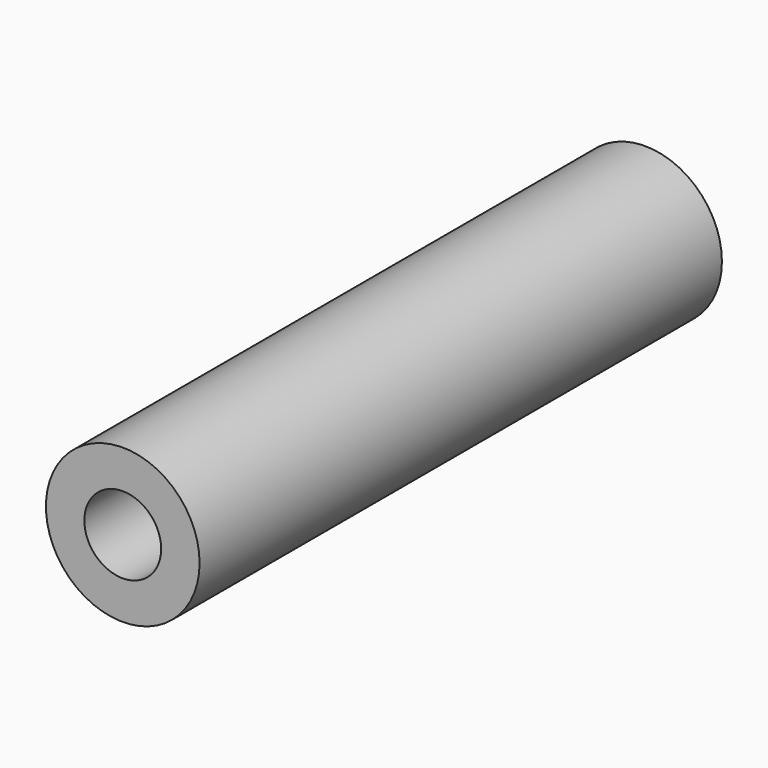
from build123d import *

# Parameters (mm, degrees)
CYLINDER021_R          = 1
CYLINDER021_DEPTH      = 17
CYLINDER021_ROLL_ANGLE = 90
CYLINDER019_R          = 2
CYLINDER019_DEPTH      = 17
CYLINDER019_ROLL_ANGLE = 90


with BuildPart() as cylinder021:
    # Cylinder021 → Cylinder021 (new body)
    with BuildSketch(Plane.XY):
        Circle(CYLINDER021_R)
    extrude(amount=CYLINDER021_DEPTH)


with BuildPart() as cylinder021_1:
    # Cylinder021 roll: moved
    add(cylinder021.part.rotate(Axis((0, 0, 0), (1, 0, 0)), CYLINDER021_ROLL_ANGLE))


with BuildPart() as cylinder021_2:
    # Cylinder021 placement: moved
    add(cylinder021_1.part.moved(Location((-23, -8, 0))))


with BuildPart() as cut006:
    # Cylinder019 → Cylinder019 (new body)
    with BuildSketch(Plane.XY):
        Circle(CYLINDER019_R)
    extrude(amount=CYLINDER019_DEPTH)


with BuildPart() as cut006_1:
    # Cylinder019 roll: moved
    add(cut006.part.rotate(Axis((0, 0, 0), (1, 0, 0)), CYLINDER019_ROLL_ANGLE))


with BuildPart() as cut006_2:
    # Cylinder019 placement: moved
    add(cut006_1.part.moved(Location((-23, -8, 0))))

    # Cut006: cut Cylinder021
    add(cylinder021_2.part, mode=Mode.SUBTRACT)


with BuildPart() as cut006_3:
    # Cut006 placement: moved
    add(cut006_2.part.moved(Location((1, 0, 0))))


solid = cut006_3.part
